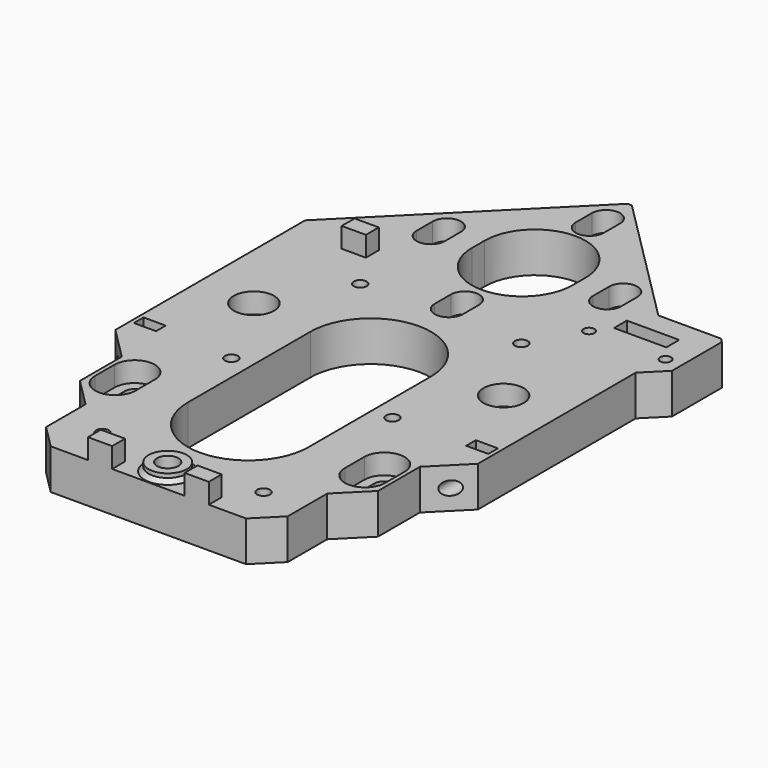
from build123d import *

# Parameters (mm, degrees)
SKETCH_R             = 2.875
PAD_DEPTH            = 10
SKETCH015_R          = 1.6
HOLE_DEPTH           = 10.001
SKETCH001_R          = 5
POCKET_DEPTH         = 5
POCKET001_DEPTH      = 5
PAD002_DEPTH         = 10
SKETCH005_R          = 1.375
SKETCH005_W          = 13
SKETCH005_H          = 4
SKETCH005_W_2        = 3
SKETCH005_H_2        = 11
POCKET002_DEPTH      = 10
POCKET007_DEPTH      = 5
POCKET009_DEPTH      = 10.001
POCKET011_DEPTH      = 4
SKETCH017_W          = 6
SKETCH017_H          = 4
PAD003_DEPTH         = 15
SKETCH018_R          = 1.7
HOLE001_DEPTH        = 35
SKETCH019_W          = 5.5
SKETCH019_H          = 3
POCKET012_DEPTH      = 8
SKETCH020_R          = 4.75
PAD004_DEPTH         = 2
SKETCH021_R          = 2.65
HOLE002_DEPTH        = 25
SKETCH023_R          = 5
SKETCH023_R_2        = 3
POCKET013_DEPTH      = 0.5
POCKET013_DEPTH_BACK = 4.5
CHAMFER003_SIZE      = 0.75
CHAMFER_SIZE         = 1


with BuildPart() as part:
    # Sketch → Pad (new body)
    with BuildSketch(Plane.XY):
        Polygon((0, 119.910617), (-45, 74.910617), (-45, 16), (-37, 8), (-37, -5), (-30, -12), (-30, -24.25), (-24.25, -30), (24.25, -30), (30, -24.25), (30, -12), (37, -5), (37, 8), (45, 16), (45, 74.910617), align=None)
        with Locations((-31, 41.5)):
            Circle(SKETCH_R, mode=Mode.SUBTRACT)
        with Locations((31, 41.5)):
            Circle(SKETCH_R, mode=Mode.SUBTRACT)
        with BuildLine():
            ThreePointArc((-20.17031, 90), (-21.92031, 91.75), (-23.67031, 90))
            Line((-23.67031, 90), (-23.67031, 85))
            ThreePointArc((-23.67031, 85), (-21.92031, 83.25), (-20.17031, 85))
            Line((-20.17031, 90), (-20.17031, 85))
        make_face(mode=Mode.SUBTRACT)
        with BuildLine():
            ThreePointArc((12.5, 90), (0, 102.5), (-12.5, 90))
            Line((-12.5, 90), (-12.5, 86))
            ThreePointArc((-12.5, 86), (0, 73.5), (12.5, 86))
            Line((12.5, 90), (12.5, 86))
        make_face(mode=Mode.SUBTRACT)
        with BuildLine():
            ThreePointArc((1.75, 68.07969), (0, 69.82969), (-1.75, 68.07969))
            Line((-1.75, 68.07969), (-1.75, 63.07969))
            ThreePointArc((-1.75, 63.07969), (0, 61.32969), (1.75, 63.07969))
            Line((1.75, 68.07969), (1.75, 63.07969))
        make_face(mode=Mode.SUBTRACT)
        with BuildLine():
            ThreePointArc((23.67031, 90), (21.92031, 91.75), (20.17031, 90))
            Line((20.17031, 90), (20.17031, 85))
            ThreePointArc((20.17031, 85), (21.92031, 83.25), (23.67031, 85))
            Line((23.67031, 90), (23.67031, 85))
        make_face(mode=Mode.SUBTRACT)
        with BuildLine():
            ThreePointArc((1.75, 111.92031), (0, 113.67031), (-1.75, 111.92031))
            Line((-1.75, 111.92031), (-1.75, 106.92031))
            ThreePointArc((-1.75, 106.92031), (0, 105.17031), (1.75, 106.92031))
            Line((1.75, 111.92031), (1.75, 106.92031))
        make_face(mode=Mode.SUBTRACT)
        with BuildLine():
            ThreePointArc((-28.5, 4.5), (-31, 7), (-33.5, 4.5))
            Line((-33.5, 4.5), (-33.5, -1.5))
            ThreePointArc((-33.5, -1.5), (-31, -4), (-28.5, -1.5))
            Line((-28.5, 4.5), (-28.5, -1.5))
        make_face(mode=Mode.SUBTRACT)
        with BuildLine():
            ThreePointArc((33.5, 4.5), (31, 7), (28.5, 4.5))
            Line((28.5, 4.5), (28.5, -1.5))
            ThreePointArc((28.5, -1.5), (31, -4), (33.5, -1.5))
            Line((33.5, 4.5), (33.5, -1.5))
        make_face(mode=Mode.SUBTRACT)
    extrude(amount=PAD_DEPTH)

    # Sketch015 → Hole (cut, through all)
    with BuildSketch(Plane.XY):
        with Locations((-20, 60.75)):
            Circle(SKETCH015_R)
        with Locations((-20, -19.25)):
            Circle(SKETCH015_R)
        with Locations((-20, 20.75)):
            Circle(SKETCH015_R)
        with Locations((20, 60.75)):
            Circle(SKETCH015_R)
        with Locations((20, -19.25)):
            Circle(SKETCH015_R)
        with Locations((20, 20.75)):
            Circle(SKETCH015_R)
    extrude(amount=HOLE_DEPTH, mode=Mode.SUBTRACT)

    # Sketch001 (on DatumPlane) → Pocket (cut)
    with BuildSketch(Plane.XY.offset(10)):
        with Locations((-31, 41.5)):
            Circle(SKETCH001_R)
        with Locations((31, 41.5)):
            Circle(SKETCH001_R)
        with BuildLine():
            ThreePointArc((36, 4.5), (31, 9.5), (26, 4.5))
            Line((26, 4.5), (26, -1.5))
            ThreePointArc((26, -1.5), (31, -6.5), (36, -1.5))
            Line((36, 4.5), (36, -1.5))
        make_face()
        with BuildLine():
            ThreePointArc((-26, 4.5), (-31, 9.5), (-36, 4.5))
            Line((-36, 4.5), (-36, -1.5))
            ThreePointArc((-36, -1.5), (-31, -6.5), (-26, -1.5))
            Line((-26, 4.5), (-26, -1.5))
        make_face()
    extrude(amount=-POCKET_DEPTH, mode=Mode.SUBTRACT)

    # Sketch003 → Pocket001 (cut)
    with BuildSketch(Plane.XY):
        Polygon((-22.875, 59.090118), (-20, 57.430236), (-17.125, 59.090118), (-17.125, 62.409882), (-20, 64.069764), (-22.875, 62.409882), align=None)
        Polygon((17.125, -20.909882), (20, -22.569764), (22.875, -20.909882), (22.875, -17.590118), (20, -15.930236), (17.125, -17.590118), align=None)
        Polygon((17.125, 59.090118), (20, 57.430236), (22.875, 59.090118), (22.875, 62.409882), (20, 64.069764), (17.125, 62.409882), align=None)
        Polygon((-22.875, 19.090118), (-20, 17.430236), (-17.125, 19.090118), (-17.125, 22.409882), (-20, 24.069764), (-22.875, 22.409882), align=None)
        Polygon((-22.875, -20.909882), (-20, -22.569764), (-17.125, -20.909882), (-17.125, -17.590118), (-20, -15.930236), (-22.875, -17.590118), align=None)
        Polygon((17.125, 19.090118), (20, 17.430236), (22.875, 19.090118), (22.875, 22.409882), (20, 24.069764), (17.125, 22.409882), align=None)
    extrude(amount=POCKET001_DEPTH, mode=Mode.SUBTRACT)

    # Sketch006 (on DatumPlane) → Pad002 (join)
    with BuildSketch(Plane.XY.offset(10)):
        Polygon((45, 65), (50, 70), (50, 86.5), (33.35, 86.5), (45, 74.85), align=None)
    extrude(amount=-PAD002_DEPTH)

    # Sketch005 (on DatumPlane) → Pocket002 (cut)
    with BuildSketch(Plane.XY.offset(10)):
        with Locations((27, 73)):
            Circle(SKETCH005_R)
        with Locations((46, 73)):
            Circle(SKETCH005_R)
        with Locations((36.5, 79)):
            Rectangle(SKETCH005_W, SKETCH005_H)
        with Locations((52.25, 78)):
            Rectangle(SKETCH005_W_2, SKETCH005_H_2)
    extrude(amount=-POCKET002_DEPTH, mode=Mode.SUBTRACT)

    # Sketch013 (on DatumPlane) → Pocket007 (cut)
    with BuildSketch(Plane.XY.offset(10)):
        with BuildLine():
            ThreePointArc((3.5, 112), (0, 115.5), (-3.5, 112))
            Line((-3.5, 112), (-3.5, 107))
            ThreePointArc((-3.5, 107), (0, 103.5), (3.5, 107))
            Line((3.5, 112), (3.5, 107))
        make_face()
        with BuildLine():
            ThreePointArc((3.5, 68.25), (0, 71.75), (-3.5, 68.25))
            Line((-3.5, 68.25), (-3.5, 63.25))
            ThreePointArc((-3.5, 63.25), (0, 59.75), (3.5, 63.25))
            Line((3.5, 68.25), (3.5, 63.25))
        make_face()
        with BuildLine():
            ThreePointArc((25.4, 90), (21.9, 93.5), (18.4, 90))
            Line((18.4, 90), (18.4, 85))
            ThreePointArc((18.4, 85), (21.9, 81.5), (25.4, 85))
            Line((25.4, 90), (25.4, 85))
        make_face()
        with BuildLine():
            ThreePointArc((-18.4, 90), (-21.9, 93.5), (-25.4, 90))
            Line((-25.4, 90), (-25.4, 85))
            ThreePointArc((-25.4, 85), (-21.9, 81.5), (-18.4, 85))
            Line((-18.4, 90), (-18.4, 85))
        make_face()
    extrude(amount=-POCKET007_DEPTH, mode=Mode.SUBTRACT)

    # Sketch014 → Pocket009 (cut, through all)
    with BuildSketch(Plane(origin=(0, 0, 0), x_dir=(1, 0, 0), z_dir=(0, 0, -1))):
        with BuildLine():
            ThreePointArc((15, -1), (0, 14), (-15, -1))
            Line((-15, -1), (-15, -39))
            ThreePointArc((-15, -39), (0, -54), (15, -39))
            Line((15, -1), (15, -39))
        make_face()
    extrude(amount=-POCKET009_DEPTH, mode=Mode.SUBTRACT)

    # Sketch016 → Pocket011 (cut)
    with BuildSketch(Plane.XY):
        Polygon((4.618802, -24.25), (2.309401, -20.25), (-2.309401, -20.25), (-4.618802, -24.25), (-2.309401, -28.25), (2.309401, -28.25), align=None)
    extrude(amount=POCKET011_DEPTH, mode=Mode.SUBTRACT)

    # Sketch017 → Pad003 (join)
    with BuildSketch(Plane.XY):
        with Locations((-12, -28)):
            Rectangle(SKETCH017_W, SKETCH017_H)
        with Locations((12, -28)):
            Rectangle(SKETCH017_W, SKETCH017_H)
        with Locations((-29, 72)):
            Rectangle(SKETCH017_W, SKETCH017_H)
    extrude(amount=PAD003_DEPTH)

    # Sketch018 → Hole001 (cut)
    with BuildSketch(Plane.XZ):
        with Locations((-41.25, 5)):
            Circle(SKETCH018_R)
        with Locations((41.25, 5)):
            Circle(SKETCH018_R)
    extrude(amount=-HOLE001_DEPTH, mode=Mode.SUBTRACT)

    # Sketch019 (on DatumPlane) → Pocket012 (cut)
    with BuildSketch(Plane.XY.offset(10)):
        with Locations((-41.25, 22)):
            Rectangle(SKETCH019_W, SKETCH019_H)
        with Locations((41.25, 22)):
            Rectangle(SKETCH019_W, SKETCH019_H)
    extrude(amount=-POCKET012_DEPTH, mode=Mode.SUBTRACT)

    # Sketch020 (on DatumPlane) → Pad004 (join)
    with BuildSketch(Plane.XY.offset(10)):
        with Locations((0, -24)):
            Circle(SKETCH020_R)
    extrude(amount=PAD004_DEPTH)

    # Sketch021 → Hole002 (cut)
    with BuildSketch(Plane.XY):
        with Locations((0, -24)):
            Circle(SKETCH021_R)
    extrude(amount=HOLE002_DEPTH, mode=Mode.SUBTRACT)

    # Sketch023 → Pocket013 (cut, two sides)
    with BuildSketch(Plane.XY.offset(3)) as pocket013_sk:
        with Locations((-33, 88)):
            Circle(SKETCH023_R)
        with Locations((-33, 88)):
            Circle(SKETCH023_R_2, mode=Mode.SUBTRACT)
        with Locations((33, 88)):
            Circle(SKETCH023_R)
        with Locations((33, 88)):
            Circle(SKETCH023_R_2, mode=Mode.SUBTRACT)
    extrude(amount=-POCKET013_DEPTH, mode=Mode.SUBTRACT)
    extrude(pocket013_sk.sketch, amount=POCKET013_DEPTH_BACK, mode=Mode.SUBTRACT)

    # Chamfer003
    chamfer003_edges = [part.edges().sort_by_distance(p)[0] for p in [
        (0, 119.910617, 5),
    ]]
    chamfer(chamfer003_edges, length=CHAMFER003_SIZE)

    # Chamfer
    chamfer_edges = [part.edges().sort_by_distance(p)[0] for p in [
        (50, 86.5, 5),
        (-4.75, -24, 10),
    ]]
    chamfer(chamfer_edges, length=CHAMFER_SIZE)


solid = part.part
